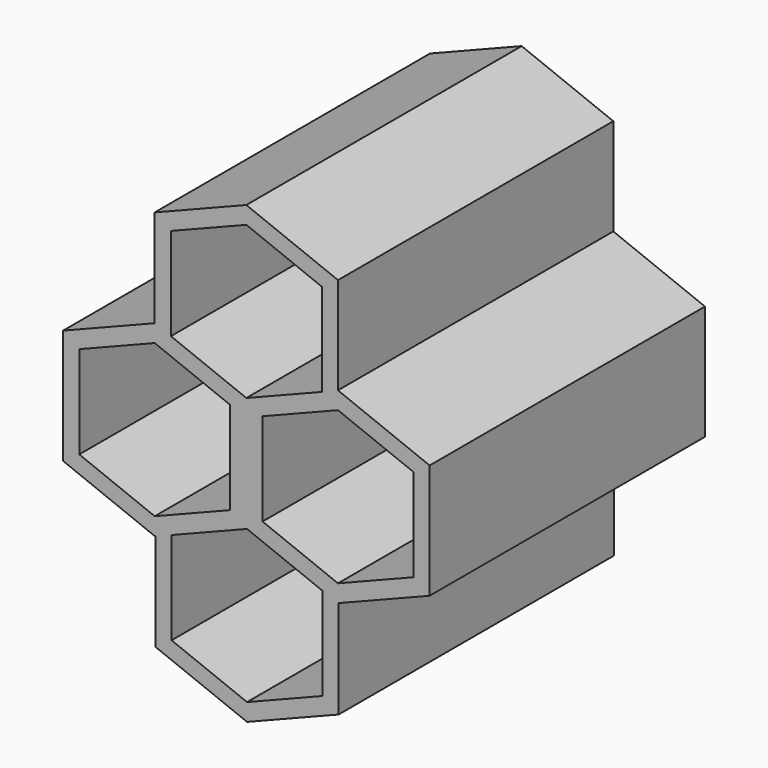
from build123d import *

# Parameters (mm, degrees)
F1_DEPTH = 76.2


with BuildPart() as f1:
    # F0 (on Front) → F1 (new body)
    with BuildSketch(Plane.XZ):
        Polygon((-20.7798469164, 30.9448499908), (-4.080258193, 37.5633350251), (12.6193305304, 30.9448499908), (12.6193305304, 20.6855171707), (12.6193305304, 10.4787727096), (16.2119930955, 11.9026391182), (16.2119930955, 20.6855171707), (16.2119930955, 33.3855171707), (-4.080258193, 41.4278686137), (-24.3725094816, 33.3855171707), (-24.3725094816, 20.6855171707), (-24.3725094816, 11.7845961285), (-24.3678997162, 11.7864230994), (-4.080258193, 3.7458986274), (-4.080258193, 3.8076993163), (-20.7798469164, 10.4261843506), (-20.7798469164, 20.6855171707), align=None)
        Polygon((16.2119930955, 11.9026391182), (12.6193305304, 10.4787727096), (12.6193305304, 10.4261843506), (-4.080258193, 3.8076993163), (-4.080258193, 3.7458986274), (-4.0756484277, 3.7440716565), (-4.0756484277, -0.0550073013), (-0.4875956279, 1.3670321364), (-0.4875956279, 1.4196204954), (16.2119930955, 8.0381055297), align=None)
        Polygon((36.5042443841, 3.8602876753), (16.2119930955, 11.9026391182), (16.2119930955, 8.0381055297), (32.9115818189, 1.4196204954), (32.9115818189, -8.8397123247), (32.9115818189, -19.0990451448), (16.2119930955, -25.7175301792), (-0.4875956279, -19.0990451448), (-0.4875956279, -8.8397123247), (-0.4875956279, 1.3670321364), (-4.0756484277, -0.0550073013), (-4.0756484277, -8.9559283435), (-4.0756484277, -17.8542805673), (-3.9285096231, -17.7959655996), (16.3637416654, -25.8383170426), (16.3637416654, -29.5219218291), (36.5042443841, -21.5397123247), (36.5042443841, -8.8397123247), align=None)
        Polygon((-4.080258193, -0.0568342722), (-4.080258193, 3.7458986274), (-24.3678997162, 11.7864230994), (-24.3725094816, 11.7845961285), (-24.3725094816, 7.9855171707), align=None)
        Polygon((-4.080258193, -8.8397123247), (-4.080258193, -0.0568342722), (-24.3725094816, 7.9855171707), (-24.3725094816, 11.7845961285), (-44.6601510048, 3.7440716565), (-44.6601510048, -8.9559283435), (-44.6601510048, -21.6559283435), (-24.3678997162, -29.6982797865), (-24.2207609117, -29.6399648189), (-24.2207609117, -25.8383170426), (-4.080258193, -17.8561075382), align=None)
        Polygon((-41.0674884396, 1.3034044766), (-24.3678997162, 7.9218895109), (-7.6683109928, 1.3034044766), (-7.6683109928, -8.9559283435), (-7.6683109928, -19.2152611636), (-24.3678997162, -25.833746198), (-41.0674884396, -19.2152611636), (-41.0674884396, -8.9559283435), align=None, mode=Mode.SUBTRACT)
        Polygon((16.3637416654, -38.5383170426), (16.3637416654, -29.5219218291), (16.2119930955, -29.5820637677), (-4.0756484277, -21.5415392957), (-4.0756484277, -21.6559283435), (-24.2207609117, -29.6399648189), (-24.2207609117, -38.5383170426), (-24.2207609117, -51.2383170426), (-3.9285096231, -59.2806684855), (16.3637416654, -51.2383170426), align=None)
        Polygon((-20.6280983465, -28.2789842225), (-3.9285096231, -21.6604991882), (12.7710791003, -28.2789842225), (12.7710791003, -38.5383170426), (12.7710791003, -48.7976498627), (-3.9285096231, -55.416134897), (-20.6280983465, -48.7976498627), (-20.6280983465, -38.5383170426), align=None, mode=Mode.SUBTRACT)
        Polygon((16.2119930955, -29.5820637677), (16.3637416654, -29.5219218291), (16.3637416654, -25.8383170426), (-3.9285096231, -17.7959655996), (-4.0756484277, -17.8542805673), (-4.0756484277, -21.5415392957), align=None)
        Polygon((-4.080258193, -21.5397123247), (-4.080258193, -17.8561075382), (-24.2207609117, -25.8383170426), (-24.2207609117, -29.6399648189), (-4.0756484277, -21.6559283435), (-4.0756484277, -21.5415392957), align=None)
    extrude(amount=F1_DEPTH)


solid = f1.part
